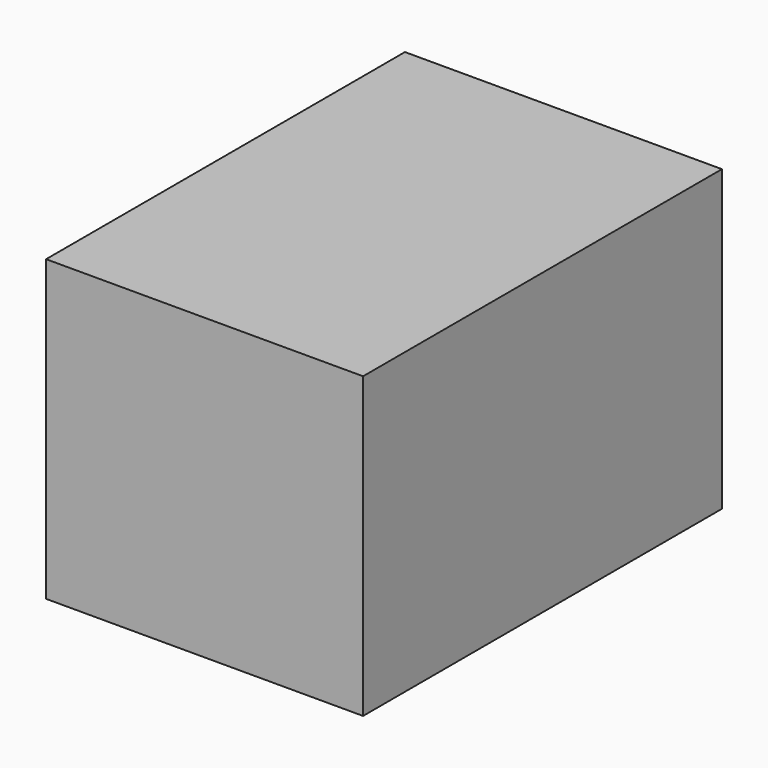
from build123d import *

# Parameters (mm, degrees)
F0_W     = 190.5
F0_H     = 127
F1_DEPTH = 7.62
F2_W     = 7.7119544148
F2_H     = 7.6466050446
F2_W_2   = 175.0760897994
F2_H_2   = 111.7067933083
F2_W_3   = 7.7119557858
F2_H_3   = 7.6466016471
F3_DEPTH = 127
F4_W     = 7.6109431684
F4_H     = 52.9533312656
F4_H_2   = 7.6109394431
F4_W_2   = 48.9413635805
F4_W_3   = 8.3309542388
F4_W_4   = 59.4186419621
F5_DEPTH = 127


with BuildPart() as f1:
    # F0 (on Right) → F1 (new body)
    with BuildSketch(Plane.YZ):
        with Locations((32.6675430536, 0.8675659299)):
            Rectangle(F0_W, F0_H)
    extrude(amount=F1_DEPTH)

    # F2 (on face) → F3 (join)
    with BuildSketch(Plane(origin=(0, 0, 0), x_dir=(0, -1, 0), z_dir=(-1, 0, 0))):
        with Locations((-124.0615658462, 60.5442634076)):
            Rectangle(F2_W, F2_H)
        with Locations((-32.6675437391, 60.5442634076)):
            Rectangle(F2_W_2, F2_H)
        with Locations((-124.0615658462, 0.8675642312)):
            Rectangle(F2_W, F2_H_2)
        with Locations((58.7264790535, 60.5442634076)):
            Rectangle(F2_W_3, F2_H)
        with Locations((-124.0615658462, -58.8091332465)):
            Rectangle(F2_W, F2_H_3)
        with Locations((58.7264790535, 0.8675642312)):
            Rectangle(F2_W_3, F2_H_2)
        with Locations((-32.6675437391, -58.8091332465)):
            Rectangle(F2_W_2, F2_H_3)
        with Locations((58.7264790535, -58.8091332465)):
            Rectangle(F2_W_3, F2_H_3)
    extrude(amount=F3_DEPTH)

    # F4 (on face) → F5 (join)
    with BuildSketch(Plane(origin=(0, 0, 0), x_dir=(0, -1, 0), z_dir=(-1, 0, 0))):
        with Locations((-65.625930205, 30.2442952525)):
            Rectangle(F4_W, F4_H)
        with Locations((-65.625930205, -0.0378401019)):
            Rectangle(F4_W, F4_H_2)
        Polygon((-69.4314017892, -3.8433098234), (-69.4314017892, 3.7676296197), (-110.6796637177, 3.7676296197), (-120.2055886388, 3.7676296197), (-120.2055886388, 0), (-120.2055886388, -3.8433098234), align=None)
        Polygon((-61.8204586208, -3.8433098234), (-69.4314017892, -3.8433098234), (-69.4314017892, -24.8306896538), (-69.4314017892, -54.985832423), (-61.8204586208, -54.985832423), align=None)
        with Locations((-37.3497768305, -0.0378401019)):
            Rectangle(F4_W_2, F4_H_2)
        with Locations((-8.7136179209, -0.0378401019)):
            Rectangle(F4_W_3, F4_H_2)
        with Locations((-8.7136179209, 30.2442952525)):
            Rectangle(F4_W_3, F4_H)
        Polygon((-4.5481408015, -3.8433098234), (-12.8790950403, -3.8433098234), (-12.8790950403, -54.985832423), (-4.5481408015, -54.985832423), (-4.5481408015, -8.6574442685), align=None)
        with Locations((25.1611801796, -0.0378401019)):
            Rectangle(F4_W_4, F4_H_2)
    extrude(amount=F5_DEPTH)


solid = f1.part
